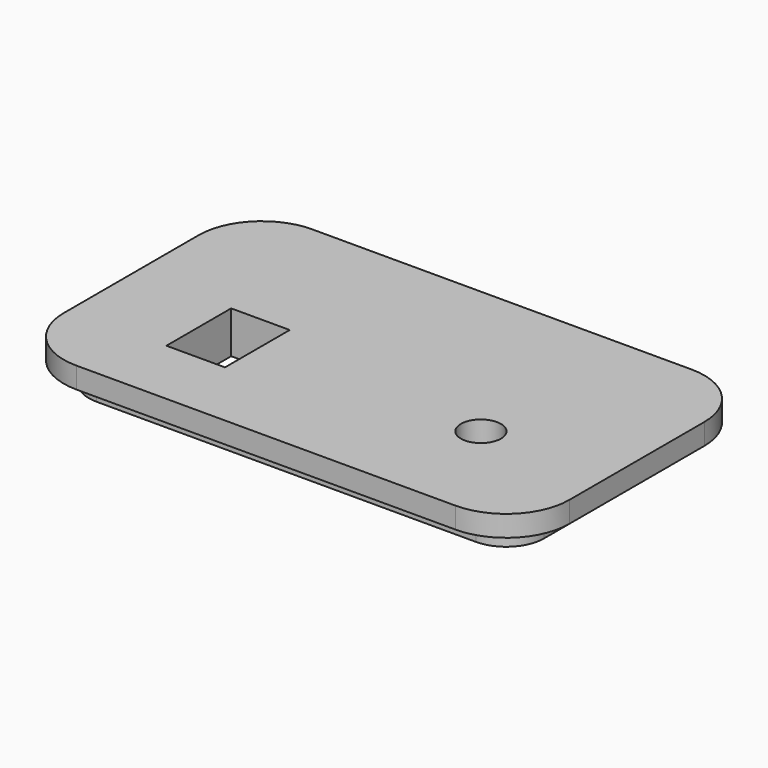
from build123d import *

# Parameters (mm, degrees)
F2_DEPTH = 5
F3_DEPTH = 5
F4_W     = 13.9
F4_H     = 19.2
F4_R     = 4.75
F5_DEPTH = 10


with BuildPart() as f2:
    # F1 (on offset) → F2 (new body)
    with BuildSketch(Plane.XY.offset(2.5)):
        with BuildLine():
            Line((45, 35), (-45, 35))
            ThreePointArc((-45, 35), (-55.6066017178, 30.6066017178), (-60, 20))
            Line((-60, 20), (-60, -20))
            ThreePointArc((-60, -20), (-55.6066017178, -30.6066017178), (-45, -35))
            Line((-45, -35), (45, -35))
            ThreePointArc((45, -35), (55.6066017178, -30.6066017178), (60, -20))
            Line((60, -20), (60, 20))
            ThreePointArc((60, 20), (55.6066017178, 30.6066017178), (45, 35))
        make_face()
        with BuildLine():
            Line((-45, 30), (45, 30))
            ThreePointArc((45, 30), (52.0710678119, 27.0710678119), (55, 20))
            Line((55, 20), (55, -20))
            ThreePointArc((55, -20), (52.0710678119, -27.0710678119), (45, -30))
            Line((45, -30), (-45, -30))
            ThreePointArc((-45, -30), (-52.0710678119, -27.0710678119), (-55, -20))
            Line((-55, -20), (-55, 20))
            ThreePointArc((-55, 20), (-52.0710678119, 27.0710678119), (-45, 30))
        make_face(mode=Mode.SUBTRACT)
        with BuildLine():
            ThreePointArc((55, 20), (52.0710678119, 27.0710678119), (45, 30))
            Line((45, 30), (-45, 30))
            ThreePointArc((-45, 30), (-52.0710678119, 27.0710678119), (-55, 20))
            Line((-55, 20), (-55, -20))
            ThreePointArc((-55, -20), (-52.0710678119, -27.0710678119), (-45, -30))
            Line((-45, -30), (45, -30))
            ThreePointArc((45, -30), (52.0710678119, -27.0710678119), (55, -20))
            Line((55, -20), (55, 20))
        make_face()
        with BuildLine():
            Line((-45, 29), (45, 29))
            ThreePointArc((45, 29), (51.3639610307, 26.3639610307), (54, 20))
            Line((54, 20), (54, -20))
            ThreePointArc((54, -20), (51.3639610307, -26.3639610307), (45, -29))
            Line((45, -29), (-45, -29))
            ThreePointArc((-45, -29), (-51.3639610307, -26.3639610307), (-54, -20))
            Line((-54, -20), (-54, 20))
            ThreePointArc((-54, 20), (-51.3639610307, 26.3639610307), (-45, 29))
        make_face(mode=Mode.SUBTRACT)
        with BuildLine():
            ThreePointArc((54, 20), (51.3639610307, 26.3639610307), (45, 29))
            Line((45, 29), (-45, 29))
            ThreePointArc((-45, 29), (-51.3639610307, 26.3639610307), (-54, 20))
            Line((-54, 20), (-54, -20))
            ThreePointArc((-54, -20), (-51.3639610307, -26.3639610307), (-45, -29))
            Line((-45, -29), (45, -29))
            ThreePointArc((45, -29), (51.3639610307, -26.3639610307), (54, -20))
            Line((54, -20), (54, 20))
        make_face()
    extrude(amount=F2_DEPTH)

    # F1 (on offset) → F3 (join)
    with BuildSketch(Plane.XY.offset(2.5)):
        with BuildLine():
            ThreePointArc((54, 20), (51.3639610307, 26.3639610307), (45, 29))
            Line((45, 29), (-45, 29))
            ThreePointArc((-45, 29), (-51.3639610307, 26.3639610307), (-54, 20))
            Line((-54, 20), (-54, -20))
            ThreePointArc((-54, -20), (-51.3639610307, -26.3639610307), (-45, -29))
            Line((-45, -29), (45, -29))
            ThreePointArc((45, -29), (51.3639610307, -26.3639610307), (54, -20))
            Line((54, -20), (54, 20))
        make_face()
    extrude(amount=-F3_DEPTH)

    # F4 (on face) → F5 (cut, through all)
    with BuildSketch(Plane.XY.offset(7.5)):
        with Locations((-30, -8.75)):
            Rectangle(F4_W, F4_H)
        with Locations((30, -8.75)):
            Circle(F4_R)
    extrude(amount=-F5_DEPTH, mode=Mode.SUBTRACT)


solid = f2.part
